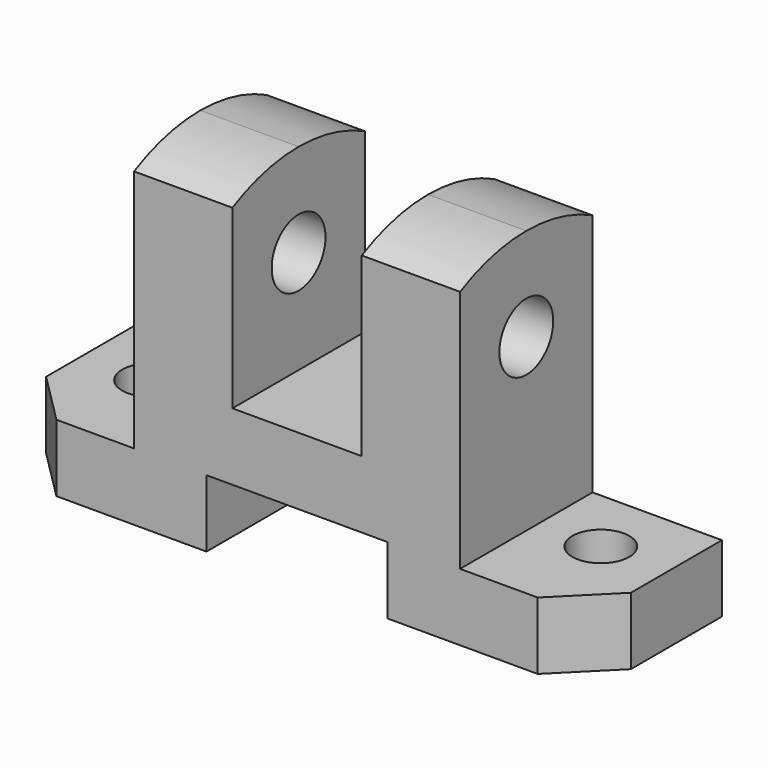
from build123d import *

# Parameters (mm, degrees)
F1_DEPTH  = 32
F3_DEPTH  = 13.001
F4_R      = 5.5
F5_DEPTH  = 13.001
F6_R      = 6.5
F7_DEPTH  = 88.001
F9_DEPTH  = 88.001
F10_DEPTH = 88.001


with BuildPart() as f1:
    # F0 (on Front) → F1 (new body)
    with BuildSketch(Plane.XZ):
        Polygon((-39, 0), (0, 0), (0, 13), (35, 13), (35, 0), (74, 0), (74, 13), (49, 13), (49, 64), (30, 64), (30, 26), (5, 26), (5, 64), (-14, 64), (-14, 13), (-39, 13), align=None)
    extrude(amount=F1_DEPTH)

    # F2 (on face) → F3 (cut, through all)
    with BuildSketch(Plane.XY.offset(13)):
        Polygon((74, -22), (64, -32), (74, -32), align=None)
        Polygon((-39, -32), (-29, -32), (-39, -22), align=None)
    extrude(amount=-F3_DEPTH, mode=Mode.SUBTRACT)

    # F4 (on face) → F5 (cut, through all)
    with BuildSketch(Plane.XY.offset(13)):
        with Locations((-26, -13)):
            Circle(F4_R)
        with Locations((61, -13)):
            Circle(F4_R)
    extrude(amount=-F5_DEPTH, mode=Mode.SUBTRACT)

    # F6 (on face) → F7 (cut, through all)
    with BuildSketch(Plane.YZ.offset(49)):
        with Locations((-16, 46)):
            Circle(F6_R)
    extrude(amount=-F7_DEPTH, mode=Mode.SUBTRACT)

    # F8 (on face) → F9 (cut, through all)
    with BuildSketch(Plane.YZ.offset(49)):
        with BuildLine():
            ThreePointArc((-32, 60.128765), (-24.230833, 63.018427), (-16, 64))
            Line((-16, 64), (-32, 64))
            Line((-32, 64), (-32, 60.128765))
        make_face()
        with BuildLine():
            ThreePointArc((-16, 64), (-7.769167, 63.018427), (0, 60.128765))
            Line((0, 60.128765), (0, 64))
            Line((0, 64), (-16, 64))
        make_face()
    extrude(amount=-F9_DEPTH, mode=Mode.SUBTRACT)

    # F8 (on face) → F10 (cut, through all)
    with BuildSketch(Plane.YZ.offset(49)):
        with BuildLine():
            ThreePointArc((-32, 60.128765), (-24.230833, 63.018427), (-16, 64))
            Line((-16, 64), (-32, 64))
            Line((-32, 64), (-32, 60.128765))
        make_face()
        with BuildLine():
            ThreePointArc((-16, 64), (-7.769167, 63.018427), (0, 60.128765))
            Line((0, 60.128765), (0, 64))
            Line((0, 64), (-16, 64))
        make_face()
    extrude(amount=-F10_DEPTH, mode=Mode.SUBTRACT)


solid = f1.part
